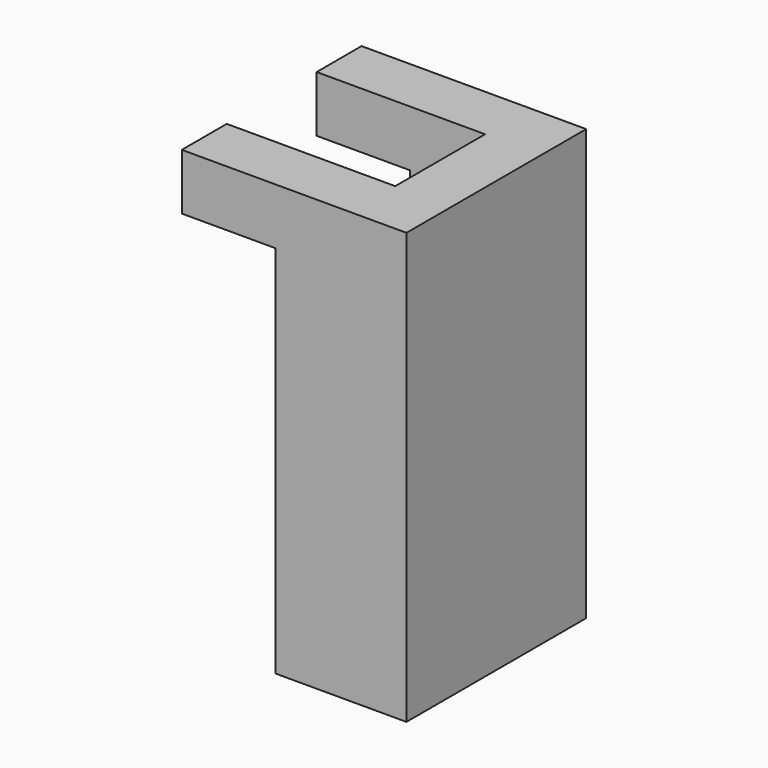
from build123d import *

# Parameters (mm, degrees)
F1_DEPTH = 3.81
F3_DEPTH = 25.4
F4_W     = 5.08
F4_H     = 7.62
F5_DEPTH = 50.8


with BuildPart() as f1:
    # F0 (on Top) → F1 (new body)
    with BuildSketch(Plane.XY):
        Polygon((-29.753983, 4.73037), (-44.993983, 4.73037), (-44.993983, 0.92037), (-38.643983, 0.92037), (-38.643983, -6.69963), (-44.993983, -6.69963), (-44.993983, -10.50963), (-29.753983, -10.50963), align=None)
    extrude(amount=F1_DEPTH)

    # F2 (on face) → F3 (join)
    with BuildSketch(Plane(origin=(0, 0, 0), x_dir=(1, 0, 0), z_dir=(0, 0, -1))):
        Polygon((-29.753983, 10.50963), (-38.643983, 10.50963), (-38.643983, 6.69963), (-38.643983, -0.92037), (-38.643983, -4.73037), (-29.753983, -4.73037), align=None)
    extrude(amount=F3_DEPTH)

    # F4 (on face) → F5 (cut)
    with BuildSketch(Plane(origin=(0, 0, -25.4), x_dir=(1, 0, 0), z_dir=(0, 0, -1))):
        with Locations((-36.103983, 2.88963)):
            Rectangle(F4_W, F4_H)
    extrude(amount=-F5_DEPTH, mode=Mode.SUBTRACT)


solid = f1.part
